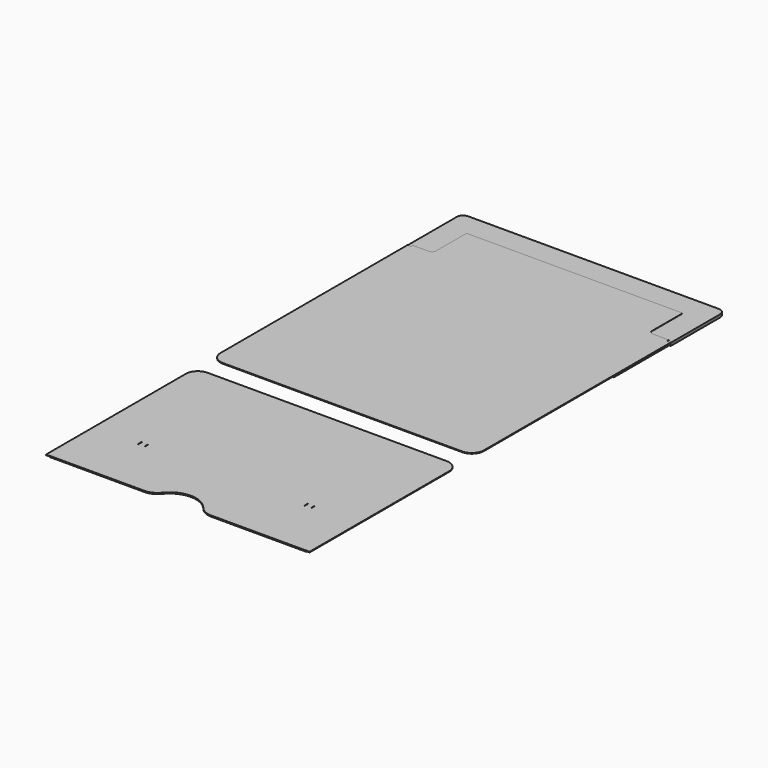
from build123d import *

# Parameters (mm, degrees)
F0_W      = 0.5
F0_H      = 5.5
F1_DEPTH  = 0.8
F2_DEPTH  = 0.9
F3_DEPTH  = 0.9
F4_DEPTH  = 0.6
F6_DEPTH  = 0.6
F8_DEPTH  = 0.9
F9_W      = 1
F9_H      = 5.5
F9_R      = 2.5
F10_DEPTH = 0.6
F12_DEPTH = 0.6


with BuildPart() as f1:
    # F0 (on Top) → F1 (new body)
    with BuildSketch(Plane.XY):
        with BuildLine():
            Line((-163, -321.539), (-41.231056, -321.539))
            ThreePointArc((-41.231056, -321.539), (-32.502341, -319.533708), (-25.523987, -313.919952))
            ThreePointArc((-25.523987, -313.919952), (0, -301.539), (25.523987, -313.919952))
            ThreePointArc((25.523987, -313.919952), (32.502341, -319.533708), (41.231056, -321.539))
            Line((41.231056, -321.539), (163, -321.539))
            Line((163, -321.539), (163, -105.539))
            ThreePointArc((163, -105.539), (158.606602, -94.932398), (148, -90.539))
            Line((148, -90.539), (-148, -90.539))
            ThreePointArc((-148, -90.539), (-158.606602, -94.932398), (-163, -105.539))
            Line((-163, -105.539), (-163, -321.539))
        make_face()
        with Locations((-107, -246.539)):
            Rectangle(F0_W, F0_H, mode=Mode.SUBTRACT)
        with Locations((-99, -246.539)):
            Rectangle(F0_W, F0_H, mode=Mode.SUBTRACT)
        with Locations((99, -246.539)):
            Rectangle(F0_W, F0_H, mode=Mode.SUBTRACT)
        with Locations((107, -246.539)):
            Rectangle(F0_W, F0_H, mode=Mode.SUBTRACT)
    extrude(amount=-F1_DEPTH)


with BuildPart() as f2:
    # F0 (on Top) → F2 (new body)
    with BuildSketch(Plane.XY):
        with BuildLine():
            Line((163, 164.261), (163, 237.117))
            Line((163, 237.117), (158.5, 237.117))
            Line((158.5, 237.117), (138.750796, 237.117))
            ThreePointArc((138.750796, 237.117), (133.093942, 239.460146), (130.750796, 245.117))
            Line((130.750796, 245.117), (130.750796, 289.289796))
            Line((130.750796, 289.289796), (-130.750796, 289.289796))
            Line((-130.750796, 289.289796), (-130.750796, 245.117))
            ThreePointArc((-130.750796, 245.117), (-133.093942, 239.460146), (-138.750796, 237.117))
            Line((-138.750796, 237.117), (-158.5, 237.117))
            Line((-158.5, 237.117), (-163, 237.117))
            Line((-163, 237.117), (-163, 164.261))
            Line((-163, 164.261), (-163, -51.739))
            ThreePointArc((-163, -51.739), (-158.606602, -62.345602), (-148, -66.739))
            Line((-148, -66.739), (148, -66.739))
            ThreePointArc((148, -66.739), (158.606602, -62.345602), (163, -51.739))
            Line((163, -51.739), (163, 164.261))
        make_face()
        with BuildLine():
            Line((138.750796, 237.117), (158.5, 237.117))
            Line((158.5, 237.117), (158.5, 240.117))
            Line((158.5, 240.117), (138.750796, 240.117))
            ThreePointArc((138.750796, 240.117), (135.215262, 241.581466), (133.750796, 245.117))
            Line((133.750796, 245.117), (133.750796, 292.289796))
            Line((133.750796, 292.289796), (-133.750796, 292.289796))
            Line((-133.750796, 292.289796), (-133.750796, 245.117))
            ThreePointArc((-133.750796, 245.117), (-135.215262, 241.581466), (-138.750796, 240.117))
            Line((-138.750796, 240.117), (-158.5, 240.117))
            Line((-158.5, 240.117), (-158.5, 237.117))
            Line((-158.5, 237.117), (-138.750796, 237.117))
            ThreePointArc((-138.750796, 237.117), (-133.093942, 239.460146), (-130.750796, 245.117))
            Line((-130.750796, 245.117), (-130.750796, 289.289796))
            Line((-130.750796, 289.289796), (130.750796, 289.289796))
            Line((130.750796, 289.289796), (130.750796, 245.117))
            ThreePointArc((130.750796, 245.117), (133.093942, 239.460146), (138.750796, 237.117))
        make_face()
    extrude(amount=F2_DEPTH)


with BuildPart() as f3:
    # F0 (on Top) → F3 (new body)
    with BuildSketch(Plane.XY):
        with BuildLine():
            ThreePointArc((163, 313.539), (160.656854, 319.195854), (155, 321.539))
            Line((155, 321.539), (-155, 321.539))
            ThreePointArc((-155, 321.539), (-160.656854, 319.195854), (-163, 313.539))
            Line((-163, 313.539), (-163, 237.117))
            Line((-163, 237.117), (-158.5, 237.117))
            Line((-158.5, 237.117), (-158.5, 240.117))
            Line((-158.5, 240.117), (-138.750796, 240.117))
            ThreePointArc((-138.750796, 240.117), (-135.215262, 241.581466), (-133.750796, 245.117))
            Line((-133.750796, 245.117), (-133.750796, 292.289796))
            Line((-133.750796, 292.289796), (133.750796, 292.289796))
            Line((133.750796, 292.289796), (133.750796, 245.117))
            ThreePointArc((133.750796, 245.117), (135.215262, 241.581466), (138.750796, 240.117))
            Line((138.750796, 240.117), (158.5, 240.117))
            Line((158.5, 240.117), (158.5, 237.117))
            Line((158.5, 237.117), (163, 237.117))
            Line((163, 237.117), (163, 313.539))
        make_face()
    extrude(amount=-F3_DEPTH)


with BuildPart() as f4:
    # F0 (on Top) → F4 (new body)
    with BuildSketch(Plane.XY):
        with BuildLine():
            Line((138.750796, 237.117), (158.5, 237.117))
            Line((158.5, 237.117), (158.5, 240.117))
            Line((158.5, 240.117), (138.750796, 240.117))
            ThreePointArc((138.750796, 240.117), (135.215262, 241.581466), (133.750796, 245.117))
            Line((133.750796, 245.117), (133.750796, 292.289796))
            Line((133.750796, 292.289796), (-133.750796, 292.289796))
            Line((-133.750796, 292.289796), (-133.750796, 245.117))
            ThreePointArc((-133.750796, 245.117), (-135.215262, 241.581466), (-138.750796, 240.117))
            Line((-138.750796, 240.117), (-158.5, 240.117))
            Line((-158.5, 240.117), (-158.5, 237.117))
            Line((-158.5, 237.117), (-138.750796, 237.117))
            ThreePointArc((-138.750796, 237.117), (-133.093942, 239.460146), (-130.750796, 245.117))
            Line((-130.750796, 245.117), (-130.750796, 289.289796))
            Line((-130.750796, 289.289796), (130.750796, 289.289796))
            Line((130.750796, 289.289796), (130.750796, 245.117))
            ThreePointArc((130.750796, 245.117), (133.093942, 239.460146), (138.750796, 237.117))
        make_face()
        with BuildLine():
            ThreePointArc((163, 313.539), (160.656854, 319.195854), (155, 321.539))
            Line((155, 321.539), (-155, 321.539))
            ThreePointArc((-155, 321.539), (-160.656854, 319.195854), (-163, 313.539))
            Line((-163, 313.539), (-163, 237.117))
            Line((-163, 237.117), (-158.5, 237.117))
            Line((-158.5, 237.117), (-158.5, 240.117))
            Line((-158.5, 240.117), (-138.750796, 240.117))
            ThreePointArc((-138.750796, 240.117), (-135.215262, 241.581466), (-133.750796, 245.117))
            Line((-133.750796, 245.117), (-133.750796, 292.289796))
            Line((-133.750796, 292.289796), (133.750796, 292.289796))
            Line((133.750796, 292.289796), (133.750796, 245.117))
            ThreePointArc((133.750796, 245.117), (135.215262, 241.581466), (138.750796, 240.117))
            Line((138.750796, 240.117), (158.5, 240.117))
            Line((158.5, 240.117), (158.5, 237.117))
            Line((158.5, 237.117), (163, 237.117))
            Line((163, 237.117), (163, 313.539))
        make_face()
    extrude(amount=F4_DEPTH)


with BuildPart() as f6:
    # F5 (on face) → F6 (new body)
    with BuildSketch(Plane(origin=(0, 0, -0.9), x_dir=(1, 0, 0), z_dir=(0, 0, -1))):
        with BuildLine():
            Line((-163, -237.117), (-163, -313.539))
            ThreePointArc((-163, -313.539), (-160.656854, -319.195854), (-155, -321.539))
            Line((-155, -321.539), (155, -321.539))
            ThreePointArc((155, -321.539), (160.656854, -319.195854), (163, -313.539))
            Line((163, -313.539), (163, -237.117))
            Line((163, -237.117), (162.25, -237.117))
            ThreePointArc((162.25, -237.117), (161.276502, -234.596377), (158.861446, -233.38446))
            ThreePointArc((158.861446, -233.38446), (158.60384, -233.255189), (158.5, -232.986322))
            Line((158.5, -232.986322), (158.5, -188.961))
            ThreePointArc((158.5, -188.961), (157.328427, -186.132573), (154.5, -184.961))
            Line((154.5, -184.961), (0, -184.961))
            Line((0, -184.961), (-154.5, -184.961))
            ThreePointArc((-154.5, -184.961), (-157.328427, -186.132573), (-158.5, -188.961))
            Line((-158.5, -188.961), (-158.5, -232.986322))
            ThreePointArc((-158.5, -232.986322), (-158.60384, -233.255189), (-158.861446, -233.38446))
            ThreePointArc((-158.861446, -233.38446), (-161.276502, -234.596377), (-162.25, -237.117))
            Line((-162.25, -237.117), (-163, -237.117))
        make_face()
    extrude(amount=F6_DEPTH)


with BuildPart() as f8:
    # F7 (on face) → F8 (new body)
    with BuildSketch(Plane(origin=(0, 0, -1.5), x_dir=(1, 0, 0), z_dir=(0, 0, -1))):
        with BuildLine():
            Line((-158.5, -240.117), (-158.5, -237.117))
            Line((-158.5, -237.117), (-163, -237.117))
            Line((-163, -237.117), (-163, -313.539))
            ThreePointArc((-163, -313.539), (-160.656854, -319.195854), (-155, -321.539))
            Line((-155, -321.539), (155, -321.539))
            ThreePointArc((155, -321.539), (160.656854, -319.195854), (163, -313.539))
            Line((163, -313.539), (163, -237.117))
            Line((163, -237.117), (158.5, -237.117))
            Line((158.5, -237.117), (158.5, -240.117))
            Line((158.5, -240.117), (138.750796, -240.117))
            ThreePointArc((138.750796, -240.117), (135.215262, -241.581466), (133.750796, -245.117))
            Line((133.750796, -245.117), (133.750796, -277.539))
            Line((133.750796, -277.539), (-133.750796, -277.539))
            Line((-133.750796, -277.539), (-133.750796, -245.117))
            ThreePointArc((-133.750796, -245.117), (-135.215262, -241.581466), (-138.750796, -240.117))
            Line((-138.750796, -240.117), (-158.5, -240.117))
        make_face()
        with BuildLine():
            ThreePointArc((-95.928932, -302.039), (-103, -307.039), (-110.071068, -302.039))
            Line((-110.071068, -302.039), (-112, -302.039))
            ThreePointArc((-112, -302.039), (-114.5, -299.539), (-112, -297.039))
            Line((-112, -297.039), (-110.071068, -297.039))
            ThreePointArc((-110.071068, -297.039), (-103, -292.039), (-95.928932, -297.039))
            Line((-95.928932, -297.039), (-94, -297.039))
            ThreePointArc((-94, -297.039), (-91.5, -299.539), (-94, -302.039))
            Line((-94, -302.039), (-95.928932, -302.039))
        make_face(mode=Mode.SUBTRACT)
        with BuildLine():
            Line((112, -302.039), (110.071068, -302.039))
            ThreePointArc((110.071068, -302.039), (103, -307.039), (95.928932, -302.039))
            Line((95.928932, -302.039), (94, -302.039))
            ThreePointArc((94, -302.039), (91.5, -299.539), (94, -297.039))
            Line((94, -297.039), (95.928932, -297.039))
            ThreePointArc((95.928932, -297.039), (103, -292.039), (110.071068, -297.039))
            Line((110.071068, -297.039), (112, -297.039))
            ThreePointArc((112, -297.039), (114.5, -299.539), (112, -302.039))
        make_face(mode=Mode.SUBTRACT)
    extrude(amount=F8_DEPTH)


with BuildPart() as f10:
    # F9 (on face) → F10 (new body)
    with BuildSketch(Plane(origin=(0, 0, -2.4), x_dir=(1, 0, 0), z_dir=(0, 0, -1))):
        with BuildLine():
            Line((-163, -237.117), (-163, -313.539))
            ThreePointArc((-163, -313.539), (-160.656854, -319.195854), (-155, -321.539))
            Line((-155, -321.539), (155, -321.539))
            ThreePointArc((155, -321.539), (160.656854, -319.195854), (163, -313.539))
            Line((163, -313.539), (163, -237.117))
            Line((163, -237.117), (138.750796, -237.117))
            ThreePointArc((138.750796, -237.117), (133.093942, -239.460146), (130.750796, -245.117))
            Line((130.750796, -245.117), (130.750796, -273.539))
            Line((130.750796, -273.539), (-130.750796, -273.539))
            Line((-130.750796, -273.539), (-130.750796, -245.117))
            ThreePointArc((-130.750796, -245.117), (-133.093942, -239.460146), (-138.750796, -237.117))
            Line((-138.750796, -237.117), (-163, -237.117))
        make_face()
        with Locations((-107.25, -299.539)):
            Rectangle(F9_W, F9_H, mode=Mode.SUBTRACT)
        with Locations((-103, -299.539)):
            Circle(F9_R, mode=Mode.SUBTRACT)
        with Locations((-98.75, -299.539)):
            Rectangle(F9_W, F9_H, mode=Mode.SUBTRACT)
        with Locations((98.75, -299.539)):
            Rectangle(F9_W, F9_H, mode=Mode.SUBTRACT)
        with Locations((103, -299.539)):
            Circle(F9_R, mode=Mode.SUBTRACT)
        with Locations((107.25, -299.539)):
            Rectangle(F9_W, F9_H, mode=Mode.SUBTRACT)
    extrude(amount=F10_DEPTH)


with BuildPart() as f12:
    # F11 (on face) → F12 (new body)
    with BuildSketch(Plane(origin=(0, 0, -0.8), x_dir=(1, 0, 0), z_dir=(0, 0, -1))):
        with BuildLine():
            Line((159, 105.539), (159, 321.539))
            Line((159, 321.539), (41.231056, 321.539))
            ThreePointArc((41.231056, 321.539), (32.502341, 319.533708), (25.523987, 313.919952))
            ThreePointArc((25.523987, 313.919952), (0, 301.539), (-25.523987, 313.919952))
            ThreePointArc((-25.523987, 313.919952), (-32.502341, 319.533708), (-41.231056, 321.539))
            Line((-41.231056, 321.539), (-159, 321.539))
            Line((-159, 321.539), (-159, 105.539))
            ThreePointArc((-159, 105.539), (-155.778175, 97.760825), (-148, 94.539))
            Line((-148, 94.539), (148, 94.539))
            ThreePointArc((148, 94.539), (155.778175, 97.760825), (159, 105.539))
        make_face()
        with BuildLine():
            Line((159, -237.117), (163, -237.117))
            Line((163, -237.117), (163, -149.261))
            Line((163, -149.261), (159, -149.261))
            Line((159, -149.261), (159, 51.739))
            ThreePointArc((159, 51.739), (155.778175, 59.517175), (148, 62.739))
            Line((148, 62.739), (-148, 62.739))
            ThreePointArc((-148, 62.739), (-155.778175, 59.517175), (-159, 51.739))
            Line((-159, 51.739), (-159, -149.261))
            Line((-159, -149.261), (-163, -149.261))
            Line((-163, -149.261), (-163, -237.117))
            Line((-163, -237.117), (-158.5, -237.117))
            Line((-158.5, -237.117), (-158.5, -240.117))
            Line((-158.5, -240.117), (-138.750796, -240.117))
            ThreePointArc((-138.750796, -240.117), (-135.215262, -241.581466), (-133.750796, -245.117))
            Line((-133.750796, -245.117), (-133.750796, -273.539))
            Line((-133.750796, -273.539), (133.750796, -273.539))
            Line((133.750796, -273.539), (133.750796, -245.117))
            ThreePointArc((133.750796, -245.117), (135.215262, -241.581466), (138.750796, -240.117))
            Line((138.750796, -240.117), (158.5, -240.117))
            Line((158.5, -240.117), (158.5, -237.117))
            Line((158.5, -237.117), (159, -237.117))
        make_face()
    extrude(amount=F12_DEPTH)


solid = Compound([f1.part, f2.part, f3.part, f4.part, f6.part, f8.part, f10.part, f12.part])
